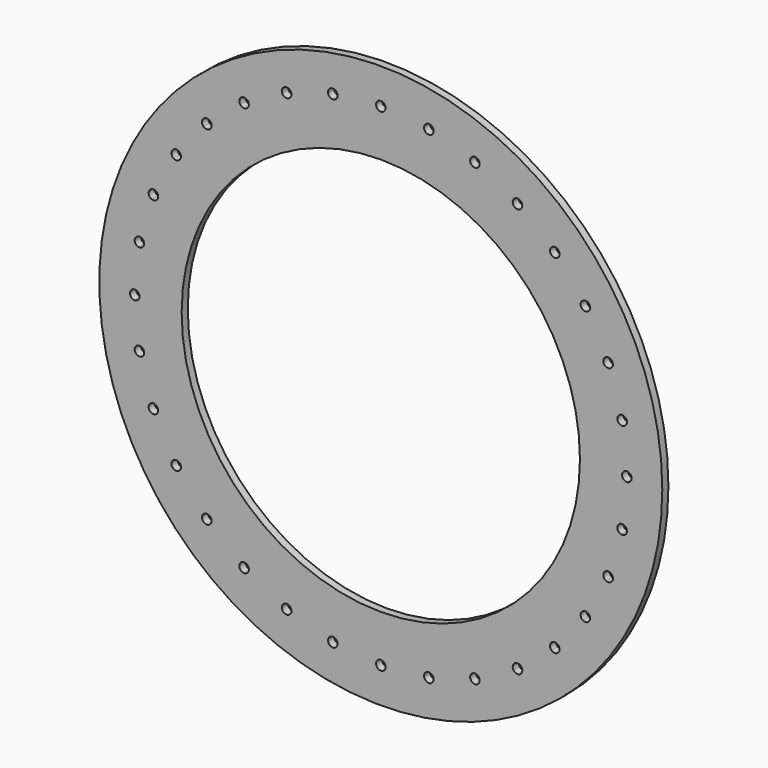
from build123d import *

# Parameters (mm, degrees)
F0_R     = 233.3625
F1_DEPTH = 6.35
F2_R     = 165.1
F3_DEPTH = 6.35


with BuildPart() as f1:
    # F0 (on Front) → F1 (new body)
    with BuildSketch(Plane.XZ):
        Circle(F0_R)
        with BuildLine():
            ThreePointArc((200.8093130939, 35.9036183947), (203.0114643366, 19.9948840201), (203.9552669245, 3.9622131206))
            ThreePointArc((203.9552669245, 3.9622131206), (206.7819508914, 2.8154128559), (207.95615, 0))
            ThreePointArc((207.95615, 0), (206.7819508914, -2.8154128559), (203.9552669245, -3.9622131206))
            ThreePointArc((203.9552669245, -3.9622131206), (203.0114643366, -19.9948840201), (200.8093130939, -35.9036183947))
            ThreePointArc((200.8093130939, -35.9036183947), (203.1248009533, -37.2686419814), (204.0364672943, -39.7972063768))
            ThreePointArc((204.0364672943, -39.7972063768), (202.5728835193, -42.8723537283), (199.2633342267, -43.6757790077))
            ThreePointArc((199.2633342267, -43.6757790077), (195.2098476123, -59.2162598807), (189.9463699762, -74.3896939901))
            ThreePointArc((189.9463699762, -74.3896939901), (191.749536579, -75.8476639535), (192.4280503852, -78.065028431))
            ThreePointArc((192.4280503852, -78.065028431), (190.6510169777, -81.3702949281), (186.9138233427, -81.7109092012))
            ThreePointArc((186.9138233427, -81.7109092012), (179.9064259192, -96.1619880829), (171.7838943835, -110.0170153636))
            ThreePointArc((171.7838943835, -110.0170153636), (173.100017334, -111.4480450944), (173.5770042246, -113.332855222))
            ThreePointArc((173.5770042246, -113.332855222), (171.4654749095, -116.8364093415), (167.3813190501, -116.6059349781))
            ThreePointArc((167.3813190501, -116.6059349781), (157.6893011707, -129.4122650114), (147.0198600671, -141.416444535))
            ThreePointArc((147.0198600671, -141.416444535), (147.898737536, -142.7112599188), (148.2077639447, -144.2453639447))
            ThreePointArc((148.2077639447, -144.2453639447), (145.7439138256, -147.9134645451), (141.416444535, -147.0198600671))
            ThreePointArc((141.416444535, -147.0198600671), (129.4122650114, -157.6893011707), (116.6059349781, -167.3813190501))
            ThreePointArc((116.6059349781, -167.3813190501), (117.1190053105, -168.4459805609), (117.295255222, -169.6146042246))
            ThreePointArc((117.295255222, -169.6146042246), (114.4646524444, -173.411925492), (110.0170153636, -171.7838943835))
            ThreePointArc((110.0170153636, -171.7838943835), (96.1619880829, -179.9064259192), (81.7109092012, -186.9138233427))
            ThreePointArc((81.7109092012, -186.9138233427), (81.9474923216, -187.6737615684), (82.027428431, -188.4656503852))
            ThreePointArc((82.027428431, -188.4656503852), (78.8191731688, -192.3556220399), (74.3896939901, -189.9463699762))
            ThreePointArc((74.3896939901, -189.9463699762), (59.2162598807, -195.2098476123), (43.6757790077, -199.2633342267))
            ThreePointArc((43.6757790077, -199.2633342267), (43.7385938198, -199.6665396465), (43.7596063768, -200.0740672943))
            ThreePointArc((43.7596063768, -200.0740672943), (40.166435804, -204.0192267828), (35.9036183947, -200.8093130939))
            ThreePointArc((35.9036183947, -200.8093130939), (19.9948840201, -203.0114643366), (3.9622131206, -203.9552669245))
            ThreePointArc((3.9622131206, -203.9552669245), (3.9623532799, -203.9745082354), (3.9624, -203.99375))
            ThreePointArc((3.9624, -203.99375), (-0.0192417646, -207.9561032799), (-3.9622131206, -203.9552669245))
            ThreePointArc((-3.9622131206, -203.9552669245), (-19.9948840201, -203.0114643366), (-35.9036183947, -200.8093130939))
            ThreePointArc((-35.9036183947, -200.8093130939), (-40.5702322687, -203.9603308893), (-43.6757790077, -199.2633342267))
            ThreePointArc((-43.6757790077, -199.2633342267), (-59.2162598807, -195.2098476123), (-74.3896939901, -189.9463699762))
            ThreePointArc((-74.3896939901, -189.9463699762), (-79.5813732634, -192.1264306448), (-81.7109092012, -186.9138233427))
            ThreePointArc((-81.7109092012, -186.9138233427), (-96.1619880829, -179.9064259192), (-110.0170153636, -171.7838943835))
            ThreePointArc((-110.0170153636, -171.7838943835), (-115.5342467134, -172.9092194164), (-116.6059349781, -167.3813190501))
            ThreePointArc((-116.6059349781, -167.3813190501), (-129.4122650114, -157.6893011707), (-141.416444535, -147.0198600671))
            ThreePointArc((-141.416444535, -147.0198600671), (-147.0472038544, -147.0472038544), (-147.0198600671, -141.416444535))
            ThreePointArc((-147.0198600671, -141.416444535), (-157.6893011707, -129.4122650114), (-167.3813190501, -116.6059349781))
            ThreePointArc((-167.3813190501, -116.6059349781), (-172.9092194164, -115.5342467134), (-171.7838943835, -110.0170153636))
            ThreePointArc((-171.7838943835, -110.0170153636), (-179.9064259192, -96.1619880829), (-186.9138233427, -81.7109092012))
            ThreePointArc((-186.9138233427, -81.7109092012), (-192.1264306448, -79.5813732634), (-189.9463699762, -74.3896939901))
            ThreePointArc((-189.9463699762, -74.3896939901), (-195.2098476123, -59.2162598807), (-199.2633342267, -43.6757790077))
            ThreePointArc((-199.2633342267, -43.6757790077), (-203.9603308893, -40.5702322687), (-200.8093130939, -35.9036183947))
            ThreePointArc((-200.8093130939, -35.9036183947), (-203.0114643366, -19.9948840201), (-203.9552669245, -3.9622131206))
            ThreePointArc((-203.9552669245, -3.9622131206), (-207.95615, 0), (-203.9552669245, 3.9622131206))
            ThreePointArc((-203.9552669245, 3.9622131206), (-203.0114643366, 19.9948840201), (-200.8093130939, 35.9036183947))
            ThreePointArc((-200.8093130939, 35.9036183947), (-203.9603308893, 40.5702322687), (-199.2633342267, 43.6757790077))
            ThreePointArc((-199.2633342267, 43.6757790077), (-195.2098476123, 59.2162598807), (-189.9463699762, 74.3896939901))
            ThreePointArc((-189.9463699762, 74.3896939901), (-192.1264306448, 79.5813732634), (-186.9138233427, 81.7109092012))
            ThreePointArc((-186.9138233427, 81.7109092012), (-179.9064259192, 96.1619880829), (-171.7838943835, 110.0170153636))
            ThreePointArc((-171.7838943835, 110.0170153636), (-172.9092194164, 115.5342467134), (-167.3813190501, 116.6059349781))
            ThreePointArc((-167.3813190501, 116.6059349781), (-157.6893011707, 129.4122650114), (-147.0198600671, 141.416444535))
            ThreePointArc((-147.0198600671, 141.416444535), (-147.0472038544, 147.0472038544), (-141.416444535, 147.0198600671))
            ThreePointArc((-141.416444535, 147.0198600671), (-129.4122650114, 157.6893011707), (-116.6059349781, 167.3813190501))
            ThreePointArc((-116.6059349781, 167.3813190501), (-115.5342467134, 172.9092194164), (-110.0170153636, 171.7838943835))
            ThreePointArc((-110.0170153636, 171.7838943835), (-96.1619880829, 179.9064259192), (-81.7109092012, 186.9138233427))
            ThreePointArc((-81.7109092012, 186.9138233427), (-79.5813732634, 192.1264306448), (-74.3896939901, 189.9463699762))
            ThreePointArc((-74.3896939901, 189.9463699762), (-59.2162598807, 195.2098476123), (-43.6757790077, 199.2633342267))
            ThreePointArc((-43.6757790077, 199.2633342267), (-40.5702322687, 203.9603308893), (-35.9036183947, 200.8093130939))
            ThreePointArc((-35.9036183947, 200.8093130939), (-19.9948840201, 203.0114643366), (-3.9622131206, 203.9552669245))
            ThreePointArc((-3.9622131206, 203.9552669245), (-0.0192417646, 207.9561032799), (3.9624, 203.99375))
            ThreePointArc((3.9624, 203.99375), (3.9623532799, 203.9745082354), (3.9622131206, 203.9552669245))
            ThreePointArc((3.9622131206, 203.9552669245), (19.9948840201, 203.0114643366), (35.9036183947, 200.8093130939))
            ThreePointArc((35.9036183947, 200.8093130939), (40.166435804, 204.0192267828), (43.7596063768, 200.0740672943))
            ThreePointArc((43.7596063768, 200.0740672943), (43.7385938198, 199.6665396465), (43.6757790077, 199.2633342267))
            ThreePointArc((43.6757790077, 199.2633342267), (59.2162598807, 195.2098476123), (74.3896939901, 189.9463699762))
            ThreePointArc((74.3896939901, 189.9463699762), (78.8191731688, 192.3556220399), (82.027428431, 188.4656503852))
            ThreePointArc((82.027428431, 188.4656503852), (81.9474923216, 187.6737615684), (81.7109092012, 186.9138233427))
            ThreePointArc((81.7109092012, 186.9138233427), (96.1619880829, 179.9064259192), (110.0170153636, 171.7838943835))
            ThreePointArc((110.0170153636, 171.7838943835), (114.4646524444, 173.411925492), (117.295255222, 169.6146042246))
            ThreePointArc((117.295255222, 169.6146042246), (117.1190053105, 168.4459805609), (116.6059349781, 167.3813190501))
            ThreePointArc((116.6059349781, 167.3813190501), (129.4122650114, 157.6893011707), (141.416444535, 147.0198600671))
            ThreePointArc((141.416444535, 147.0198600671), (145.7439138256, 147.9134645451), (148.2077639447, 144.2453639447))
            ThreePointArc((148.2077639447, 144.2453639447), (147.898737536, 142.7112599188), (147.0198600671, 141.416444535))
            ThreePointArc((147.0198600671, 141.416444535), (157.6893011707, 129.4122650114), (167.3813190501, 116.6059349781))
            ThreePointArc((167.3813190501, 116.6059349781), (171.4654749095, 116.8364093415), (173.5770042246, 113.332855222))
            ThreePointArc((173.5770042246, 113.332855222), (173.100017334, 111.4480450944), (171.7838943835, 110.0170153636))
            ThreePointArc((171.7838943835, 110.0170153636), (179.9064259192, 96.1619880829), (186.9138233427, 81.7109092012))
            ThreePointArc((186.9138233427, 81.7109092012), (190.6510169777, 81.3702949281), (192.4280503852, 78.065028431))
            ThreePointArc((192.4280503852, 78.065028431), (191.749536579, 75.8476639535), (189.9463699762, 74.3896939901))
            ThreePointArc((189.9463699762, 74.3896939901), (195.2098476123, 59.2162598807), (199.2633342267, 43.6757790077))
            ThreePointArc((199.2633342267, 43.6757790077), (202.5728835193, 42.8723537283), (204.0364672943, 39.7972063768))
            ThreePointArc((204.0364672943, 39.7972063768), (203.1248009533, 37.2686419814), (200.8093130939, 35.9036183947))
        make_face(mode=Mode.SUBTRACT)
        with BuildLine():
            ThreePointArc((203.9552669245, -3.9622131206), (200.03135, 0), (203.9552669245, 3.9622131206))
            ThreePointArc((203.9552669245, 3.9622131206), (203.0114643366, 19.9948840201), (200.8093130939, 35.9036183947))
            ThreePointArc((200.8093130939, 35.9036183947), (196.1878036992, 39.0241804848), (199.2633342267, 43.6757790077))
            ThreePointArc((199.2633342267, 43.6757790077), (195.2098476123, 59.2162598807), (189.9463699762, 74.3896939901))
            ThreePointArc((189.9463699762, 74.3896939901), (184.8048701256, 76.5486835986), (186.9138233427, 81.7109092012))
            ThreePointArc((186.9138233427, 81.7109092012), (179.9064259192, 96.1619880829), (171.7838943835, 110.0170153636))
            ThreePointArc((171.7838943835, 110.0170153636), (166.3199890329, 111.1314637307), (167.3813190501, 116.6059349781))
            ThreePointArc((167.3813190501, 116.6059349781), (157.6893011707, 129.4122650114), (147.0198600671, 141.416444535))
            ThreePointArc((147.0198600671, 141.416444535), (141.4435240349, 141.4435240349), (141.416444535, 147.0198600671))
            ThreePointArc((141.416444535, 147.0198600671), (129.4122650114, 157.6893011707), (116.6059349781, 167.3813190501))
            ThreePointArc((116.6059349781, 167.3813190501), (111.1314637307, 166.3199890329), (110.0170153636, 171.7838943835))
            ThreePointArc((110.0170153636, 171.7838943835), (96.1619880829, 179.9064259192), (81.7109092012, 186.9138233427))
            ThreePointArc((81.7109092012, 186.9138233427), (76.5486835986, 184.8048701256), (74.3896939901, 189.9463699762))
            ThreePointArc((74.3896939901, 189.9463699762), (59.2162598807, 195.2098476123), (43.6757790077, 199.2633342267))
            ThreePointArc((43.6757790077, 199.2633342267), (39.0241804848, 196.1878036992), (35.9036183947, 200.8093130939))
            ThreePointArc((35.9036183947, 200.8093130939), (19.9948840201, 203.0114643366), (3.9622131206, 203.9552669245))
            ThreePointArc((3.9622131206, 203.9552669245), (0, 200.03135), (-3.9622131206, 203.9552669245))
            ThreePointArc((-3.9622131206, 203.9552669245), (-19.9948840201, 203.0114643366), (-35.9036183947, 200.8093130939))
            ThreePointArc((-35.9036183947, 200.8093130939), (-35.8520468882, 200.4432967215), (-35.8348063768, 200.0740672943))
            ThreePointArc((-35.8348063768, 200.0740672943), (-39.389678729, 196.1326798512), (-43.6757790077, 199.2633342267))
            ThreePointArc((-43.6757790077, 199.2633342267), (-59.2162598807, 195.2098476123), (-74.3896939901, 189.9463699762))
            ThreePointArc((-74.3896939901, 189.9463699762), (-74.1750567763, 189.219795123), (-74.102628431, 188.4656503852))
            ThreePointArc((-74.102628431, 188.4656503852), (-77.2731396142, 184.5831864946), (-81.7109092012, 186.9138233427))
            ThreePointArc((-81.7109092012, 186.9138233427), (-96.1619880829, 179.9064259192), (-110.0170153636, 171.7838943835))
            ThreePointArc((-110.0170153636, 171.7838943835), (-109.5355339547, 170.746401447), (-109.370455222, 169.6146042246))
            ThreePointArc((-109.370455222, 169.6146042246), (-112.1642315583, 165.8284541361), (-116.6059349781, 167.3813190501))
            ThreePointArc((-116.6059349781, 167.3813190501), (-129.4122650114, 157.6893011707), (-141.416444535, 147.0198600671))
            ThreePointArc((-141.416444535, 147.0198600671), (-140.5772633443, 145.7439138256), (-140.2829639447, 144.2453639447))
            ThreePointArc((-140.2829639447, 144.2453639447), (-142.7112599188, 140.5919903534), (-147.0198600671, 141.416444535))
            ThreePointArc((-147.0198600671, 141.416444535), (-157.6893011707, 129.4122650114), (-167.3813190501, 116.6059349781))
            ThreePointArc((-167.3813190501, 116.6059349781), (-166.1110501052, 115.1837259069), (-165.6522042246, 113.332855222))
            ThreePointArc((-165.6522042246, 113.332855222), (-167.729794097, 109.8474421127), (-171.7838943835, 110.0170153636))
            ThreePointArc((-171.7838943835, 110.0170153636), (-179.9064259192, 96.1619880829), (-186.9138233427, 81.7109092012))
            ThreePointArc((-186.9138233427, 81.7109092012), (-185.1603838882, 80.2503950235), (-184.5032503852, 78.065028431))
            ThreePointArc((-184.5032503852, 78.065028431), (-186.2482859077, 74.7811422373), (-189.9463699762, 74.3896939901))
            ThreePointArc((-189.9463699762, 74.3896939901), (-195.2098476123, 59.2162598807), (-199.2633342267, 43.6757790077))
            ThreePointArc((-199.2633342267, 43.6757790077), (-196.9989199428, 42.2960226018), (-196.1116672943, 39.7972063768))
            ThreePointArc((-196.1116672943, 39.7972063768), (-197.5455028988, 36.7464727178), (-200.8093130939, 35.9036183947))
            ThreePointArc((-200.8093130939, 35.9036183947), (-203.0114643366, 19.9948840201), (-203.9552669245, 3.9622131206))
            ThreePointArc((-203.9552669245, 3.9622131206), (-201.1783371441, 2.7882008914), (-200.03135, 0))
            ThreePointArc((-200.03135, 0), (-201.1783371441, -2.7882008914), (-203.9552669245, -3.9622131206))
            ThreePointArc((-203.9552669245, -3.9622131206), (-203.0114643366, -19.9948840201), (-200.8093130939, -35.9036183947))
            ThreePointArc((-200.8093130939, -35.9036183947), (-197.5455028988, -36.7464727178), (-196.1116672943, -39.7972063768))
            ThreePointArc((-196.1116672943, -39.7972063768), (-196.9989199428, -42.2960226018), (-199.2633342267, -43.6757790077))
            ThreePointArc((-199.2633342267, -43.6757790077), (-195.2098476123, -59.2162598807), (-189.9463699762, -74.3896939901))
            ThreePointArc((-189.9463699762, -74.3896939901), (-186.2482859077, -74.7811422373), (-184.5032503852, -78.065028431))
            ThreePointArc((-184.5032503852, -78.065028431), (-185.1603838882, -80.2503950235), (-186.9138233427, -81.7109092012))
            ThreePointArc((-186.9138233427, -81.7109092012), (-179.9064259192, -96.1619880829), (-171.7838943835, -110.0170153636))
            ThreePointArc((-171.7838943835, -110.0170153636), (-167.729794097, -109.8474421127), (-165.6522042246, -113.332855222))
            ThreePointArc((-165.6522042246, -113.332855222), (-166.1110501052, -115.1837259069), (-167.3813190501, -116.6059349781))
            ThreePointArc((-167.3813190501, -116.6059349781), (-157.6893011707, -129.4122650114), (-147.0198600671, -141.416444535))
            ThreePointArc((-147.0198600671, -141.416444535), (-142.7112599188, -140.5919903534), (-140.2829639447, -144.2453639447))
            ThreePointArc((-140.2829639447, -144.2453639447), (-140.5772633443, -145.7439138256), (-141.416444535, -147.0198600671))
            ThreePointArc((-141.416444535, -147.0198600671), (-129.4122650114, -157.6893011707), (-116.6059349781, -167.3813190501))
            ThreePointArc((-116.6059349781, -167.3813190501), (-112.1642315583, -165.8284541361), (-109.370455222, -169.6146042246))
            ThreePointArc((-109.370455222, -169.6146042246), (-109.5355339547, -170.746401447), (-110.0170153636, -171.7838943835))
            ThreePointArc((-110.0170153636, -171.7838943835), (-96.1619880829, -179.9064259192), (-81.7109092012, -186.9138233427))
            ThreePointArc((-81.7109092012, -186.9138233427), (-77.2731396142, -184.5831864946), (-74.102628431, -188.4656503852))
            ThreePointArc((-74.102628431, -188.4656503852), (-74.1750567763, -189.219795123), (-74.3896939901, -189.9463699762))
            ThreePointArc((-74.3896939901, -189.9463699762), (-59.2162598807, -195.2098476123), (-43.6757790077, -199.2633342267))
            ThreePointArc((-43.6757790077, -199.2633342267), (-39.389678729, -196.1326798512), (-35.8348063768, -200.0740672943))
            ThreePointArc((-35.8348063768, -200.0740672943), (-35.8520468882, -200.4432967215), (-35.9036183947, -200.8093130939))
            ThreePointArc((-35.9036183947, -200.8093130939), (-19.9948840201, -203.0114643366), (-3.9622131206, -203.9552669245))
            ThreePointArc((-3.9622131206, -203.9552669245), (0, -200.03135), (3.9622131206, -203.9552669245))
            ThreePointArc((3.9622131206, -203.9552669245), (19.9948840201, -203.0114643366), (35.9036183947, -200.8093130939))
            ThreePointArc((35.9036183947, -200.8093130939), (39.0241804848, -196.1878036992), (43.6757790077, -199.2633342267))
            ThreePointArc((43.6757790077, -199.2633342267), (59.2162598807, -195.2098476123), (74.3896939901, -189.9463699762))
            ThreePointArc((74.3896939901, -189.9463699762), (76.5486835986, -184.8048701256), (81.7109092012, -186.9138233427))
            ThreePointArc((81.7109092012, -186.9138233427), (96.1619880829, -179.9064259192), (110.0170153636, -171.7838943835))
            ThreePointArc((110.0170153636, -171.7838943835), (111.1314637307, -166.3199890329), (116.6059349781, -167.3813190501))
            ThreePointArc((116.6059349781, -167.3813190501), (129.4122650114, -157.6893011707), (141.416444535, -147.0198600671))
            ThreePointArc((141.416444535, -147.0198600671), (141.4435240349, -141.4435240349), (147.0198600671, -141.416444535))
            ThreePointArc((147.0198600671, -141.416444535), (157.6893011707, -129.4122650114), (167.3813190501, -116.6059349781))
            ThreePointArc((167.3813190501, -116.6059349781), (166.3199890329, -111.1314637307), (171.7838943835, -110.0170153636))
            ThreePointArc((171.7838943835, -110.0170153636), (179.9064259192, -96.1619880829), (186.9138233427, -81.7109092012))
            ThreePointArc((186.9138233427, -81.7109092012), (184.8048701256, -76.5486835986), (189.9463699762, -74.3896939901))
            ThreePointArc((189.9463699762, -74.3896939901), (195.2098476123, -59.2162598807), (199.2633342267, -43.6757790077))
            ThreePointArc((199.2633342267, -43.6757790077), (196.1878036992, -39.0241804848), (200.8093130939, -35.9036183947))
            ThreePointArc((200.8093130939, -35.9036183947), (203.0114643366, -19.9948840201), (203.9552669245, -3.9622131206))
        make_face()
    extrude(amount=F1_DEPTH)

    # F2 (on face) → F3 (cut)
    with BuildSketch(Plane.XZ.offset(6.35)):
        Circle(F2_R)
    extrude(amount=-F3_DEPTH, mode=Mode.SUBTRACT)


solid = f1.part
